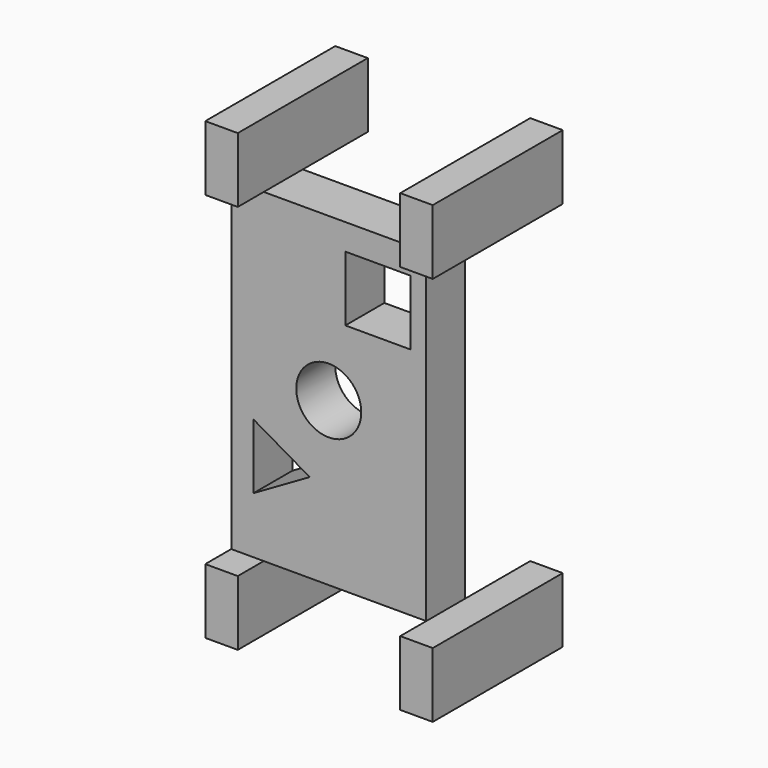
from build123d import *

# Parameters (mm, degrees)
F0_W      = 76.2
F0_H      = 127
F1_DEPTH  = 19.05
F2_W      = 25.4
F2_H      = 25.4
F3_DEPTH  = 50.8
F4_R      = 12.7
F5_DEPTH  = 50.8
F7_DEPTH  = 50.8
F9_DEPTH  = 25.4
F11_DEPTH = 25.4
F13_DEPTH = 25.4
F15_DEPTH = 12.7


with BuildPart() as f1:
    # F0 (on Front) → F1 (new body)
    with BuildSketch(Plane.XZ):
        Rectangle(F0_W, F0_H)
    extrude(amount=F1_DEPTH)

    # F2 (on face) → F3 (cut)
    with BuildSketch(Plane.XZ.offset(19.05)):
        with Locations((19.194767, 40.639999)):
            Rectangle(F2_W, F2_H)
    extrude(amount=-F3_DEPTH, mode=Mode.SUBTRACT)

    # F4 (on face) → F5 (cut)
    with BuildSketch(Plane.XZ.offset(19.05)):
        Circle(F4_R)
    extrude(amount=-F5_DEPTH, mode=Mode.SUBTRACT)

    # F6 (on face) → F7 (cut)
    with BuildSketch(Plane.XZ.offset(19.05)):
        Polygon((-7.436684, -28.755962), (-29.433729, -16.055962), (-29.433729, -41.455962), align=None)
    extrude(amount=-F7_DEPTH, mode=Mode.SUBTRACT)

    # F8 (on face) → F9 (join)
    with BuildSketch(Plane(origin=(0, 0, -63.5), x_dir=(1, 0, 0), z_dir=(0, 0, -1))):
        Polygon((-38.1, 31.75), (-38.1, 19.05), (-38.1, -31.75), (-25.4, -31.75), (-25.4, 19.05), (-25.4, 31.75), align=None)
    extrude(amount=F9_DEPTH)

    # F10 (on face) → F11 (join)
    with BuildSketch(Plane.XY.offset(63.5)):
        Polygon((-38.1, -31.75), (-25.4, -31.75), (-25.4, -19.05), (-25.4, 31.75), (-38.1, 31.75), (-38.1, -19.05), align=None)
    extrude(amount=F11_DEPTH)


with BuildPart() as f13:
    # F12 (on face) → F13 (new body)
    with BuildSketch(Plane(origin=(0, 0, -63.5), x_dir=(1, 0, 0), z_dir=(0, 0, -1))):
        Polygon((38.1, 31.75), (38.1, 19.05), (38.1, -31.75), (50.8, -31.75), (50.8, 31.75), align=None)
    extrude(amount=F13_DEPTH)


with BuildPart() as f15:
    # F14 (on face) → F15 (new body)
    with BuildSketch(Plane.YZ.offset(38.1)):
        Polygon((-31.75, 63.5), (-19.05, 63.5), (31.75, 63.5), (31.75, 88.9), (-31.75, 88.9), align=None)
    extrude(amount=F15_DEPTH)


solid = Compound([f1.part, f13.part, f15.part])
